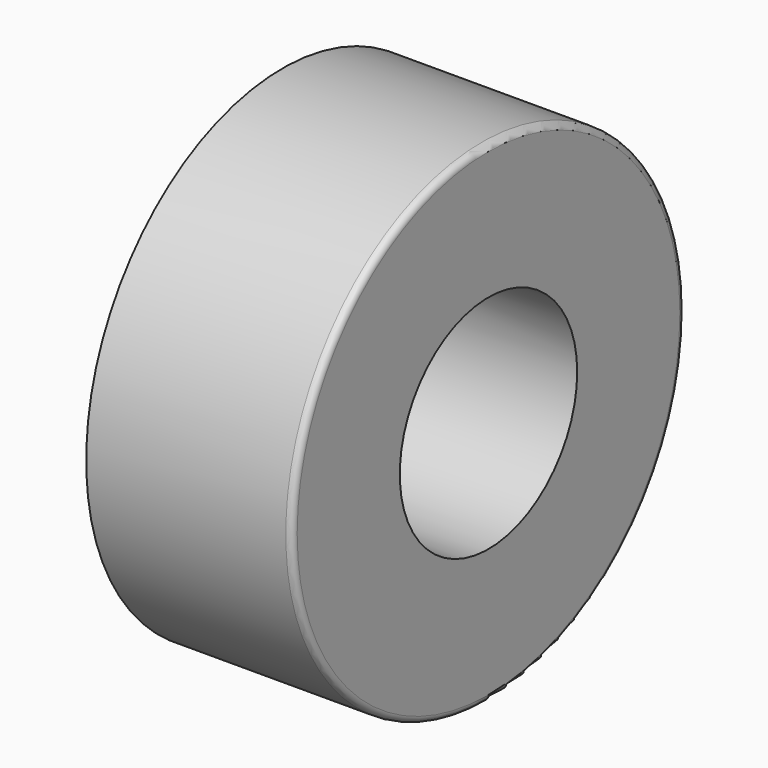
from build123d import *

# Parameters (mm, degrees)
F0_R      = 19.685
F1_DEPTH  = 16.51
F2_R      = 8.89
F3_DEPTH  = 12.7
F4_R      = 4.445
F5_DEPTH  = 1.905
F6_R      = 1.905
F7_DEPTH  = 2.032
F8_R      = 1.778
F9_DEPTH  = 5.08
F10_R     = 0.508
F11_DEPTH = 0.508
F12_R     = 1.524
F13_DEPTH = 3.556
F14_R     = 10.287
F14_R_2   = 1.778
F14_R_3   = 1.524
F15_DEPTH = 0.508
F16_R     = 18.415
F16_R_2   = 10.287
F17_DEPTH = 15.748
F18_R     = 0.508


with BuildPart() as f1:
    # F0 (on Right) → F1 (new body)
    with BuildSketch(Plane.YZ):
        Circle(F0_R)
    extrude(amount=F1_DEPTH)

    # F2 (on face) → F3 (cut)
    with BuildSketch(Plane.YZ.offset(16.51)):
        Circle(F2_R)
    extrude(amount=-F3_DEPTH, mode=Mode.SUBTRACT)

    # F4 (on face) → F5 (join)
    with BuildSketch(Plane.YZ.offset(3.81)):
        Circle(F4_R)
    extrude(amount=F5_DEPTH)

    # F6 (on face) → F7 (join)
    with BuildSketch(Plane.YZ.offset(5.715)):
        Circle(F6_R)
    extrude(amount=F7_DEPTH)

    # F8 (on face) → F9 (cut)
    with BuildSketch(Plane.YZ.offset(3.81)):
        with Locations((0, 6.6575121996)):
            Circle(F8_R)
        with Locations((-4.7075720221, 4.7075720221)):
            Circle(F8_R)
        with Locations((-6.6575121996, 0)):
            Circle(F8_R)
        with Locations((-4.7075720221, -4.7075720221)):
            Circle(F8_R)
        with Locations((0, -6.6575121996)):
            Circle(F8_R)
        with Locations((4.7075720221, -4.7075720221)):
            Circle(F8_R)
        with Locations((6.6575121996, 0)):
            Circle(F8_R)
        with Locations((4.7075720221, 4.7075720221)):
            Circle(F8_R)
    extrude(amount=-F9_DEPTH, mode=Mode.SUBTRACT)

    # F10 (on face) → F11 (join)
    with BuildSketch(Plane.YZ.offset(5.715)):
        with Locations((0, 3.175)):
            Circle(F10_R)
        with Locations((-1.866218176, 2.5686289571)):
            Circle(F10_R)
        with Locations((-3.0196044392, 0.9811289571)):
            Circle(F10_R)
        with Locations((-3.0196044392, -0.9811289571)):
            Circle(F10_R)
        with Locations((-1.866218176, -2.5686289571)):
            Circle(F10_R)
        with Locations((0, -3.175)):
            Circle(F10_R)
        with Locations((1.866218176, -2.5686289571)):
            Circle(F10_R)
        with Locations((3.0196044392, -0.9811289571)):
            Circle(F10_R)
        with Locations((3.0196044392, 0.9811289571)):
            Circle(F10_R)
        with Locations((1.866218176, 2.5686289571)):
            Circle(F10_R)
    extrude(amount=F11_DEPTH)

    # F12 (on face) → F13 (join)
    with BuildSketch(Plane(origin=(0, 0, 0), x_dir=(0, -1, 0), z_dir=(-1, 0, 0))):
        Circle(F12_R)
    extrude(amount=F13_DEPTH)

    # F14 (on face) → F15 (cut)
    with BuildSketch(Plane(origin=(0, 0, 0), x_dir=(0, -1, 0), z_dir=(-1, 0, 0))):
        Circle(F14_R)
        with Locations((-4.7075720221, -4.7075720221)):
            Circle(F14_R_2, mode=Mode.SUBTRACT)
        with Locations((0, -6.6575121996)):
            Circle(F14_R_2, mode=Mode.SUBTRACT)
        with Locations((4.7075720221, -4.7075720221)):
            Circle(F14_R_2, mode=Mode.SUBTRACT)
        with Locations((-6.6575121996, 0)):
            Circle(F14_R_2, mode=Mode.SUBTRACT)
        with Locations((-4.7075720221, 4.7075720221)):
            Circle(F14_R_2, mode=Mode.SUBTRACT)
        Circle(F14_R_3, mode=Mode.SUBTRACT)
        with Locations((4.7075720221, 4.7075720221)):
            Circle(F14_R_2, mode=Mode.SUBTRACT)
        with Locations((6.6575121996, 0)):
            Circle(F14_R_2, mode=Mode.SUBTRACT)
        with Locations((0, 6.6575121996)):
            Circle(F14_R_2, mode=Mode.SUBTRACT)
    extrude(amount=-F15_DEPTH, mode=Mode.SUBTRACT)

    # F16 (on face) → F17 (cut)
    with BuildSketch(Plane(origin=(0, 0, 0), x_dir=(0, -1, 0), z_dir=(-1, 0, 0))):
        Circle(F16_R)
        Circle(F16_R_2, mode=Mode.SUBTRACT)
    extrude(amount=-F17_DEPTH, mode=Mode.SUBTRACT)

    # F18
    f18_edges = [f1.edges().sort_by_distance(p)[0] for p in [
        (16.51, -19.685, 0),
    ]]
    fillet(f18_edges, radius=F18_R)


solid = f1.part
